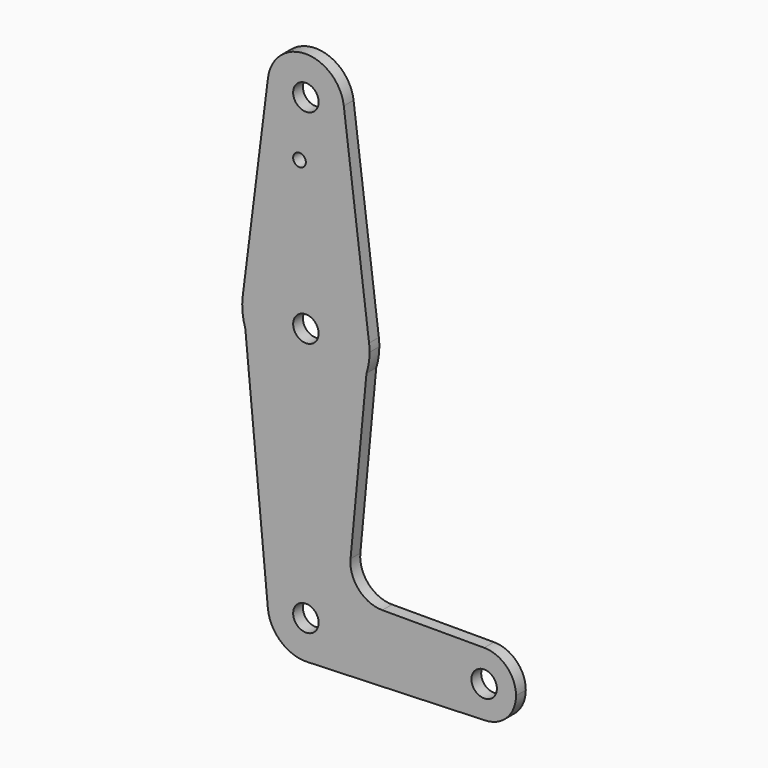
from build123d import *

# Parameters (mm, degrees)
F0_R     = 3.175
F0_R_2   = 1.5875
F1_DEPTH = 3.048


with BuildPart() as f1:
    # F0 (on Front) → F1 (new body)
    with BuildSketch(Plane.XZ):
        with BuildLine():
            ThreePointArc((-9.4502929642, 115.490625), (-0.596483242, 104.7936951058), (9.525, 114.3))
            ThreePointArc((9.525, 114.3), (9.5063048942, 114.896483242), (9.4502929642, 115.490625))
            ThreePointArc((9.4502929642, 115.490625), (0, 123.825), (-9.4502929642, 115.490625))
        make_face()
        with Locations((0, 114.3)):
            Circle(F0_R, mode=Mode.SUBTRACT)
        with BuildLine():
            ThreePointArc((9.4502929642, 115.490625), (9.5063048942, 114.896483242), (9.525, 114.3))
            ThreePointArc((9.525, 114.3), (-0.596483242, 104.7936951058), (-9.4502929642, 115.490625))
            Line((-9.4502929642, 115.490625), (-15.7504882737, 65.484375))
            ThreePointArc((-15.7504882737, 65.484375), (0, 79.375), (15.7504882737, 65.484375))
            Line((15.7504882737, 65.484375), (9.4502929642, 115.490625))
        make_face()
        with Locations((-1.5875, 100.0252)):
            Circle(F0_R_2, mode=Mode.SUBTRACT)
        with BuildLine():
            Line((15.1007031189, 58.6026139305), (15.7504882737, 65.484375))
            ThreePointArc((15.7504882737, 65.484375), (0, 79.375), (-15.7504882737, 65.484375))
            Line((-15.7504882737, 65.484375), (-15.1007031189, 58.6026139305))
            ThreePointArc((-15.1007031189, 58.6026139305), (0, 47.625), (15.1007031189, 58.6026139305))
        make_face()
        with Locations((0, 63.5)):
            Circle(F0_R, mode=Mode.SUBTRACT)
        with BuildLine():
            ThreePointArc((15.875, 63.5), (15.8438414904, 64.4941387366), (15.7504882737, 65.484375))
            Line((15.7504882737, 65.484375), (15.1007031189, 58.6026139305))
            ThreePointArc((15.1007031189, 58.6026139305), (15.6802309775, 61.020890988), (15.875, 63.5))
        make_face()
        with BuildLine():
            Line((-15.1007031189, 58.6026139305), (-15.7504882737, 65.484375))
            ThreePointArc((-15.7504882737, 65.484375), (-15.8047037758, 62.0076985695), (-15.1007031189, 58.6026139305))
        make_face()
        with BuildLine():
            Line((11.1380686589, 16.6350445564), (15.1007031189, 58.6026139305))
            ThreePointArc((15.1007031189, 58.6026139305), (0, 47.625), (-15.1007031189, 58.6026139305))
            Line((-15.1007031189, 58.6026139305), (-9.4828222655, -0.8953808583))
            ThreePointArc((-9.4828222655, -0.8953808583), (-0.4481868591, 9.5144497234), (9.525, 0))
            ThreePointArc((9.525, 0), (6.8544082857, -6.6138273378), (0.3401785714, -9.5189234444))
            Line((0.3401785714, -9.5189234444), (44.7334821429, -7.9324362036))
            ThreePointArc((44.7334821429, -7.9324362036), (36.5137660501, -0.1417636831), (44.45, 7.9375))
            Line((44.45, 7.9375), (19.0530643098, 7.9375))
            ThreePointArc((19.0530643098, 7.9375), (13.173131541, 10.5368056193), (11.1380686589, 16.6350445564))
        make_face()
        with BuildLine():
            ThreePointArc((9.525, 0), (-0.4481868591, 9.5144497234), (-9.4828222655, -0.8953808583))
            ThreePointArc((-9.4828222655, -0.8953808583), (-6.2839760592, -7.1580213668), (0.3401785714, -9.5189234444))
            ThreePointArc((0.3401785714, -9.5189234444), (6.8544082857, -6.6138273378), (9.525, 0))
        make_face()
        Circle(F0_R, mode=Mode.SUBTRACT)
        with BuildLine():
            ThreePointArc((52.3875, 0), (50.0626600757, 5.6126600757), (44.45, 7.9375))
            ThreePointArc((44.45, 7.9375), (36.5137660501, -0.1417636831), (44.7334821429, -7.9324362036))
            ThreePointArc((44.7334821429, -7.9324362036), (50.1620069047, -5.5115227815), (52.3875, 0))
        make_face()
        with Locations((44.45, 0)):
            Circle(F0_R, mode=Mode.SUBTRACT)
    extrude(amount=F1_DEPTH)


solid = f1.part
